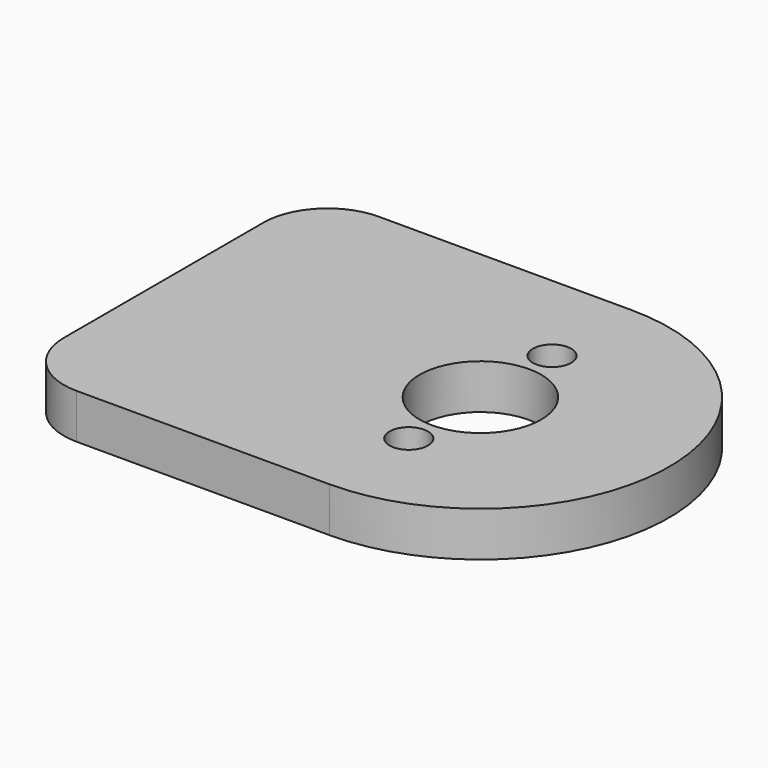
from build123d import *

# Parameters (mm, degrees)
F0_R     = 1.5
F0_R_2   = 4.75
F1_DEPTH = 3.5


with BuildPart() as f1:
    # F0 (on Top) → F1 (new body)
    with BuildSketch(Plane.XY):
        with BuildLine():
            Line((-19.75, -14.75), (0, -14.75))
            ThreePointArc((0, -14.75), (14.75, 0), (0, 14.75))
            Line((0, 14.75), (-19.75, 14.75))
            ThreePointArc((-19.75, 14.75), (-23.285534, 13.285534), (-24.75, 9.75))
            Line((-24.75, 9.75), (-24.75, -9.75))
            ThreePointArc((-24.75, -9.75), (-23.285534, -13.285534), (-19.75, -14.75))
        make_face()
        with Locations((0, -7)):
            Circle(F0_R, mode=Mode.SUBTRACT)
        Circle(F0_R_2, mode=Mode.SUBTRACT)
        with Locations((0, 7)):
            Circle(F0_R, mode=Mode.SUBTRACT)
    extrude(amount=F1_DEPTH)


solid = f1.part
